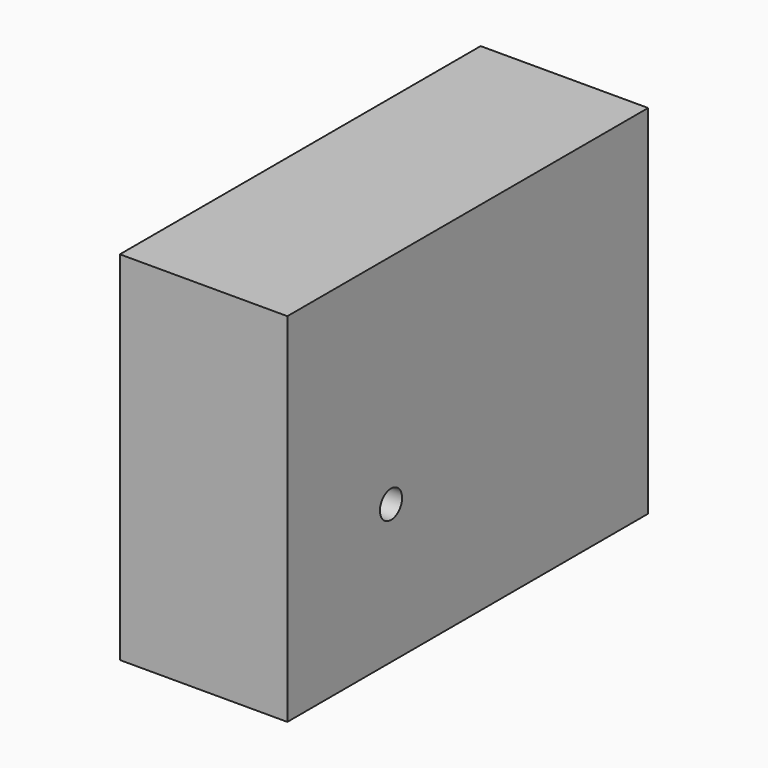
from build123d import *

# Parameters (mm, degrees)
F0_W     = 68.3699548244
F0_H     = 54.1568435729
F1_DEPTH = 25.4
F3_D     = 4.2


with BuildPart() as f1:
    # F0 (on Right) → F1 (new body)
    with BuildSketch(Plane.YZ):
        with Locations((-0.6126351655, 0)):
            Rectangle(F0_W, F0_H)
    extrude(amount=F1_DEPTH)

    # F3 (through all)
    with Locations(Plane.YZ.offset(25.4)):
        with Locations((-15.1585871354, -6.0043395497)):
            Hole(F3_D / 2)


solid = f1.part
